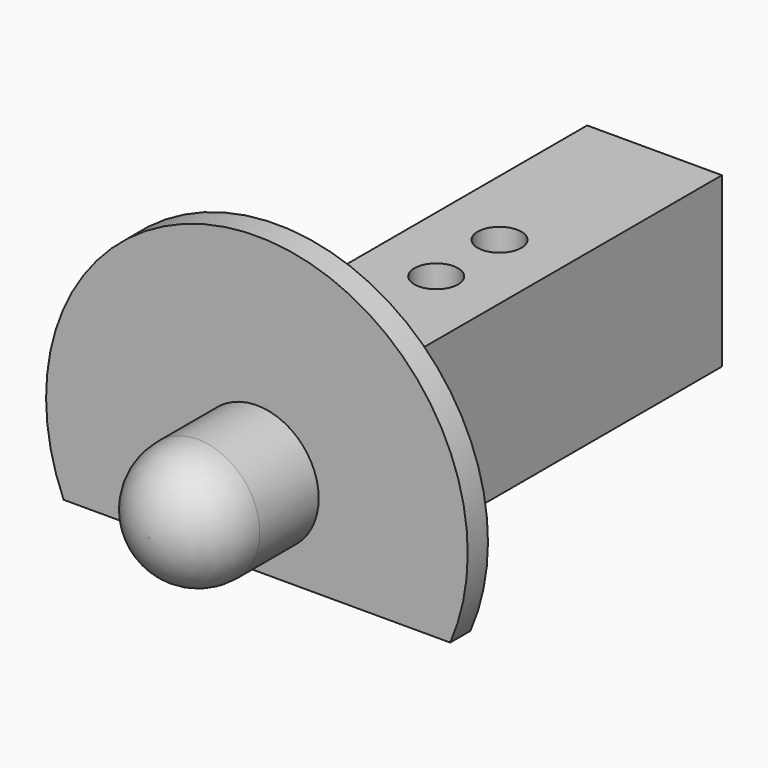
from build123d import *

# Parameters (mm, degrees)
F0_W      = 23
F0_H      = 10
F1_DEPTH  = 8
F2_R      = 4.000122
F3_DEPTH  = 5
F4_R      = 12.513681
F5_DEPTH  = 1.5
F6_R      = 3.667742
F7_DEPTH  = 8
F8_R      = 3.62132
F10_DEPTH = 25
F13_DEPTH = 25
F14_W     = 28.555372
F14_H     = 6.345639
F15_DEPTH = 9.5


with BuildPart() as f1:
    # F0 (on Right) → F1 (new body)
    with BuildSketch(Plane.YZ):
        Rectangle(F0_W, F0_H)
    extrude(amount=F1_DEPTH)

    # F2 (on face) → F3 (join)
    with BuildSketch(Plane.XZ.offset(11.5)):
        with Locations((3.999878, 0)):
            Circle(F2_R)
    extrude(amount=F3_DEPTH)

    # F4 (on face) → F5 (join)
    with BuildSketch(Plane.XZ.offset(16.5)):
        with Locations((3.999878, 0)):
            Circle(F4_R)
    extrude(amount=F5_DEPTH)

    # F6 (on face) → F7 (join)
    with BuildSketch(Plane.XZ.offset(18)):
        with Locations((3.999878, 0)):
            Circle(F6_R)
    extrude(amount=F7_DEPTH)

    # F8
    f8_edges = [f1.edges().sort_by_distance(p)[0] for p in [
        (0.332136, -26, 0),
    ]]
    fillet(f8_edges, radius=F8_R)

    # F9 (on face) → F10 (cut)
    with BuildSketch(Plane.XY.offset(5)):
        with BuildLine():
            ThreePointArc((4, -1.300277), (4.919435, -0.919435), (5.300277, 0))
            ThreePointArc((5.300277, 0), (3.080565, 0.919435), (4, -1.300277))
        make_face()
    extrude(amount=-F10_DEPTH, mode=Mode.SUBTRACT)

    # F11 (on face) → F13 (cut)
    with BuildSketch(Plane.XY.offset(5)):
        with BuildLine():
            ThreePointArc((4, -5.995241), (4.919239, -5.61448), (5.3, -4.695241))
            ThreePointArc((5.3, -4.695241), (3.080761, -3.776003), (4, -5.995241))
        make_face()
    extrude(amount=-F13_DEPTH, mode=Mode.SUBTRACT)

    # F14 (on face) → F15 (cut)
    with BuildSketch(Plane(origin=(0, 0, -5), x_dir=(1, 0, 0), z_dir=(0, 0, -1))):
        with Locations((3.811784, 17.208513)):
            Rectangle(F14_W, F14_H)
    extrude(amount=F15_DEPTH, mode=Mode.SUBTRACT)


solid = f1.part
